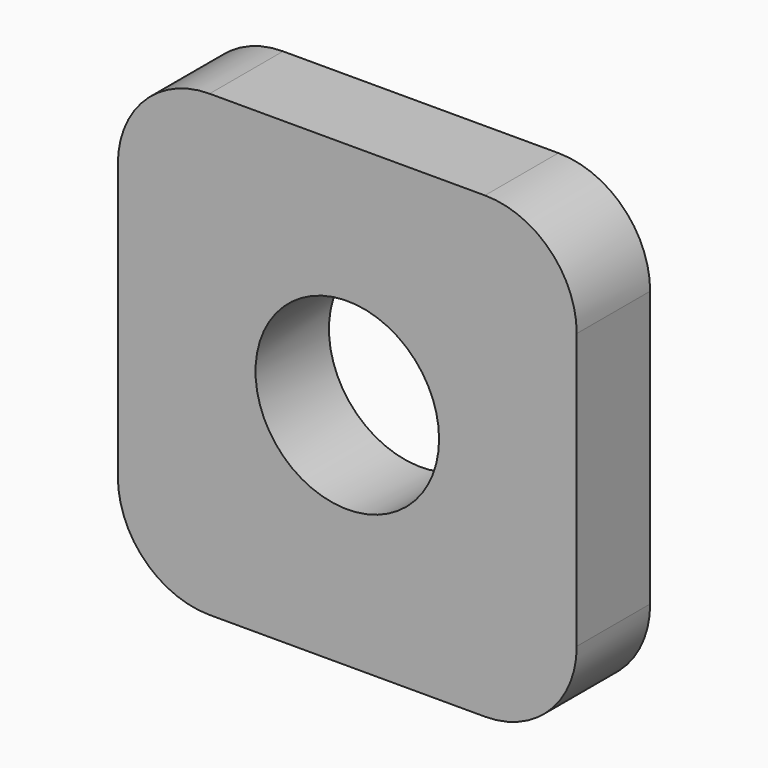
from build123d import *

# Parameters (mm, degrees)
F0_R     = 12.7
F1_DEPTH = 12.7


with BuildPart() as f1:
    # F0 (on Front) → F1 (new body)
    with BuildSketch(Plane.XZ):
        with BuildLine():
            ThreePointArc((31.75, 19.05), (28.030256, 28.030256), (19.05, 31.75))
            Line((19.05, 31.75), (-19.05, 31.75))
            ThreePointArc((-19.05, 31.75), (-28.030256, 28.030256), (-31.75, 19.05))
            Line((-31.75, 19.05), (-31.75, -19.05))
            ThreePointArc((-31.75, -19.05), (-28.030256, -28.030256), (-19.05, -31.75))
            Line((-19.05, -31.75), (19.05, -31.75))
            ThreePointArc((19.05, -31.75), (28.030256, -28.030256), (31.75, -19.05))
            Line((31.75, -19.05), (31.75, 19.05))
        make_face()
        Circle(F0_R, mode=Mode.SUBTRACT)
    extrude(amount=F1_DEPTH)


solid = f1.part
